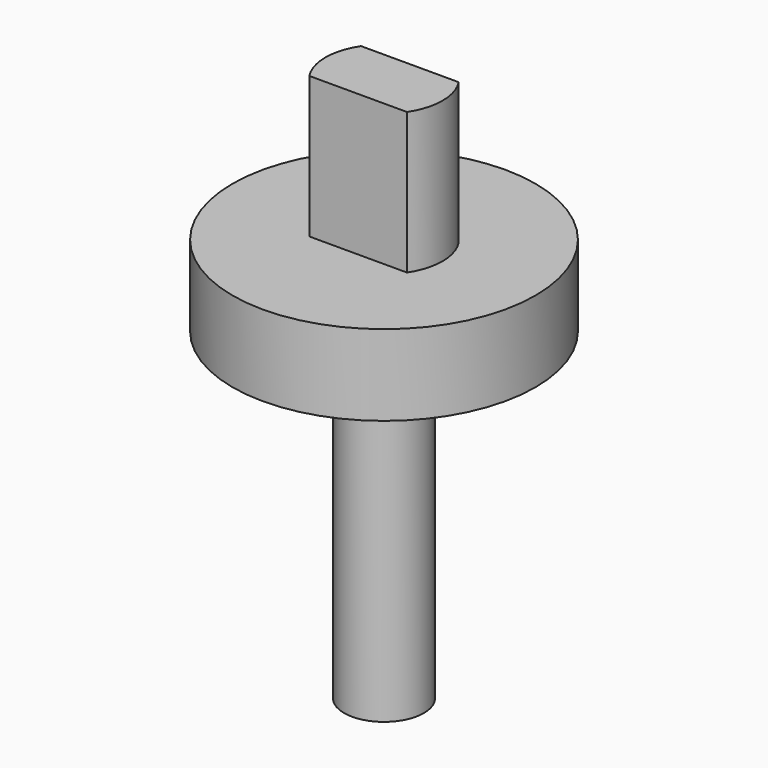
from build123d import *

# Parameters (mm, degrees)
F1_DEPTH = 7
F2_R     = 7.5
F3_DEPTH = 4
F4_R     = 1.975
F5_DEPTH = 16
F6_R     = 1.25
F7_DEPTH = 6


with BuildPart() as f1:
    # F0 (on Top) → F1 (new body)
    with BuildSketch(Plane.XY):
        with BuildLine():
            ThreePointArc((2.418677, -1.6), (2.9, 0), (2.418677, 1.6))
            Line((2.418677, 1.6), (-2.418677, 1.6))
            ThreePointArc((-2.418677, 1.6), (-2.9, 0), (-2.418677, -1.6))
            Line((-2.418677, -1.6), (2.418677, -1.6))
        make_face()
    extrude(amount=F1_DEPTH)

    # F2 (on face) → F3 (join)
    with BuildSketch(Plane(origin=(0, 0, 0), x_dir=(1, 0, 0), z_dir=(0, 0, -1))):
        Circle(F2_R)
    extrude(amount=F3_DEPTH)

    # F4 (on face) → F5 (join)
    with BuildSketch(Plane(origin=(0, 0, -4), x_dir=(1, 0, 0), z_dir=(0, 0, -1))):
        Circle(F4_R)
    extrude(amount=F5_DEPTH)

    # F6 (on face) → F7 (cut)
    with BuildSketch(Plane(origin=(0, 0, -20), x_dir=(1, 0, 0), z_dir=(0, 0, -1))):
        Circle(F6_R)
    extrude(amount=-F7_DEPTH, mode=Mode.SUBTRACT)


solid = f1.part
